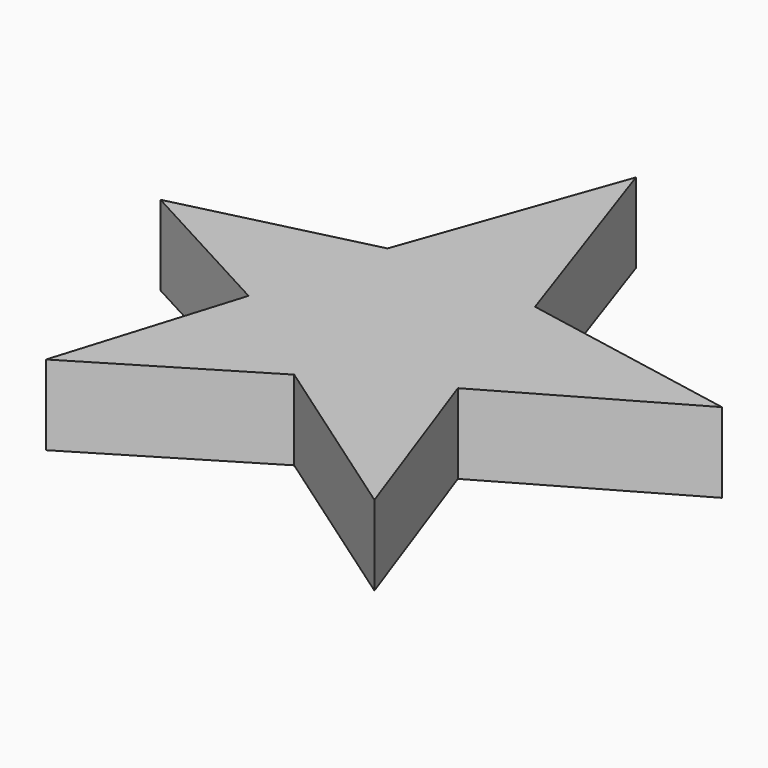
from build123d import *

# Parameters (mm, degrees)
PAD_DEPTH = 22


with BuildPart() as part:
    # Sketch001 → Pad (new body)
    with BuildSketch(Plane.XY):
        Polygon((0, 72.008072), (20.710016, 11.398713), (81.309067, 0), (31.433481, -28.58135), (49.932259, -80.442642), (0, -45.654259), (-46.083702, -73.484962), (-30.596649, -23.132751), (-73.34716, 0), (-21.036066, 12.790271), align=None)
    extrude(amount=PAD_DEPTH)


solid = part.part
